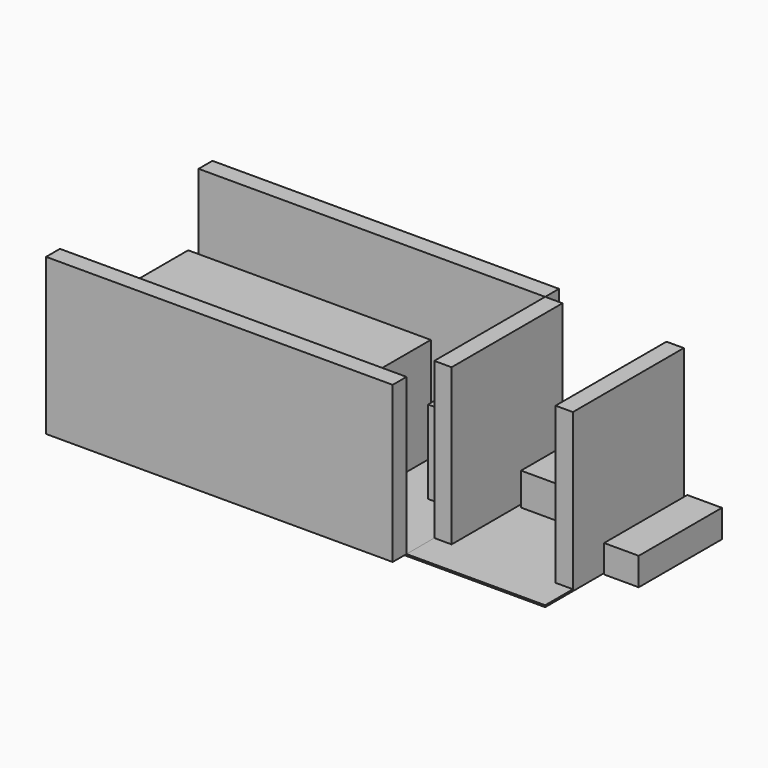
from build123d import *

# Parameters (mm, degrees)
F0_W      = 5000
F0_H      = 2500
F1_DEPTH  = 25
F2_W      = 2000
F2_H      = 2500
F3_DEPTH  = 25
F4_W      = 5000
F4_H      = 250
F4_W_2    = 250
F4_H_2    = 2000
F5_DEPTH  = 2250
F6_W      = 3500
F6_H      = 1500
F7_DEPTH  = 1500
F8_W      = 740
F8_H      = 910
F9_DEPTH  = 910
F10_W     = 600
F10_H     = 1200
F11_DEPTH = 1200
F12_W     = 580
F12_H     = 580
F13_DEPTH = 660
F14_W     = 500
F14_H     = 1500
F15_DEPTH = 400
F16_W     = 510
F16_H     = 760
F17_DEPTH = 470
F18_W     = 450
F18_H     = 450
F19_DEPTH = 450
F20_W     = 380
F20_H     = 350
F21_DEPTH = 580
F20_W_2   = 310
F20_H_2   = 250
F20_W_3   = 450
F20_H_3   = 450
F20_W_4   = 430
F20_H_4   = 380
F22_W     = 1000
F22_H     = 750
F23_DEPTH = 500


with BuildPart() as f1:
    # F0 (on Top) → F1 (new body)
    with BuildSketch(Plane.XY):
        Rectangle(F0_W, F0_H)
    extrude(amount=F1_DEPTH)


with BuildPart() as f3:
    # F2 (on Top) → F3 (new body)
    with BuildSketch(Plane.XY):
        with Locations((3500, 0)):
            Rectangle(F2_W, F2_H)
    extrude(amount=F3_DEPTH)

    # F4 (on face) → F5 (join)
    with BuildSketch(Plane.XY.offset(25)):
        with Locations((0, -1375)):
            Rectangle(F4_W, F4_H)
        with Locations((0, 1375)):
            Rectangle(F4_W, F4_H)
        with Locations((2625, 250)):
            Rectangle(F4_W_2, F4_H_2)
        with Locations((4375, 250)):
            Rectangle(F4_W_2, F4_H_2)
    extrude(amount=F5_DEPTH)


with BuildPart() as f7:
    # F6 (on face) → F7 (new body)
    with BuildSketch(Plane.XY.offset(25)):
        with Locations((-500, 0)):
            Rectangle(F6_W, F6_H)
    extrude(amount=F7_DEPTH)


with BuildPart() as f9:
    # F8 (on face) → F9 (new body)
    with BuildSketch(Plane.XY.offset(25)):
        with Locations((130, 745)):
            Rectangle(F8_W, F8_H)
    extrude(amount=F9_DEPTH)


with BuildPart() as f11:
    # F10 (on face) → F11 (new body)
    with BuildSketch(Plane.XY.offset(25)):
        with Locations((2150, 550)):
            Rectangle(F10_W, F10_H)
    extrude(amount=F11_DEPTH)


with BuildPart() as f13:
    # F12 (on face) → F13 (new body)
    with BuildSketch(Plane.XY.offset(25)):
        with Locations((-790, 910)):
            Rectangle(F12_W, F12_H)
    extrude(amount=F13_DEPTH)


with BuildPart() as f15:
    # F14 (on face) → F15 (new body)
    with BuildSketch(Plane.XY.offset(25)):
        with Locations((4800, 500)):
            Rectangle(F14_W, F14_H)
    extrude(amount=F15_DEPTH)


with BuildPart() as f17:
    # F16 (on face) → F17 (new body)
    with BuildSketch(Plane.XY.offset(25)):
        with Locations((3055, 820)):
            Rectangle(F16_W, F16_H)
    extrude(amount=F17_DEPTH)


with BuildPart() as f19:
    # F18 (on face) → F19 (new body)
    with BuildSketch(Plane.XY.offset(25)):
        with Locations((3975, 975)):
            Rectangle(F18_W, F18_H)
    extrude(amount=F19_DEPTH)


with BuildPart() as f21:
    # F20 (on face) → F21 (new body)
    with BuildSketch(Plane.XY.offset(25)):
        with Locations((-190, -1025)):
            Rectangle(F20_W, F20_H)
    extrude(amount=F21_DEPTH)


with BuildPart() as f21b:
    # F20 (on face) → F21, piece 2 (new body)
    with BuildSketch(Plane.XY.offset(25)):
        with Locations((-655, -1075)):
            Rectangle(F20_W_2, F20_H_2)
    extrude(amount=F21_DEPTH)


with BuildPart() as f21c:
    # F20 (on face) → F21, piece 3 (new body)
    with BuildSketch(Plane.XY.offset(25)):
        with Locations((275, -975)):
            Rectangle(F20_W_3, F20_H_3)
    extrude(amount=F21_DEPTH)


with BuildPart() as f21d:
    # F20 (on face) → F21, piece 4 (new body)
    with BuildSketch(Plane.XY.offset(25)):
        with Locations((785, -1010)):
            Rectangle(F20_W_4, F20_H_4)
    extrude(amount=F21_DEPTH)


with BuildPart() as f23:
    # F22 (on face) → F23 (new body)
    with BuildSketch(Plane.XY.offset(25)):
        with Locations((-1500, -125)):
            Rectangle(F22_W, F22_H)
    extrude(amount=F23_DEPTH)


solid = Compound([f1.part, f3.part, f7.part, f9.part, f11.part, f13.part, f15.part, f17.part, f19.part, f21.part, f21b.part, f21c.part, f21d.part, f23.part])
